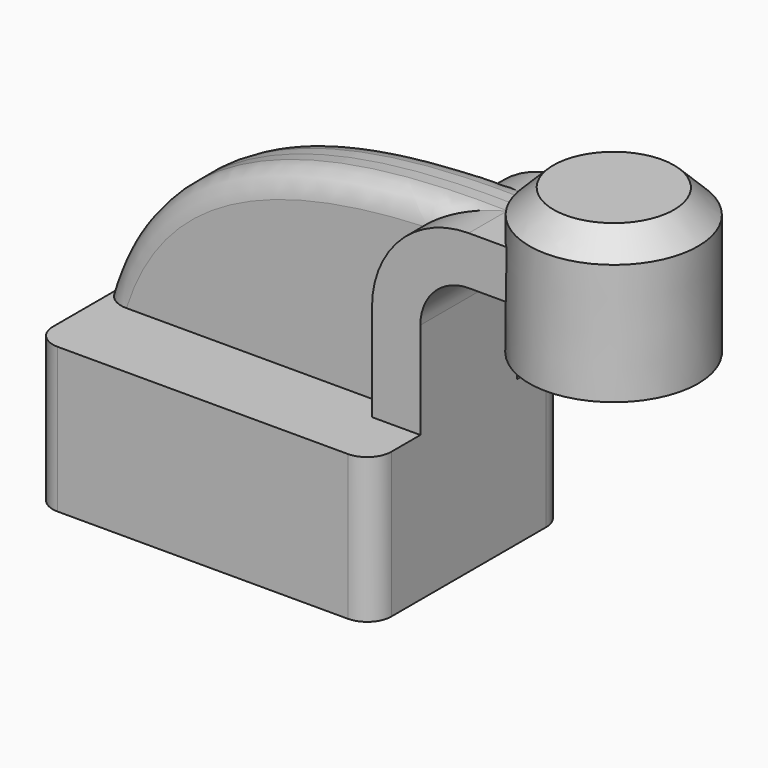
from build123d import *

# Parameters (mm, degrees)
F1_DEPTH = 25
F2_DEPTH = 7.5
F3_DEPTH = 12.5
F4_DEPTH = 12.5
F6_R     = 5
F7_SIZE  = 5


with BuildPart() as f1:
    # F0 (on Front) → F1 (new body, symmetric)
    with BuildSketch(Plane.XZ):
        Polygon((25, 15), (-35, 15), (-35, -15), (35, -15), (35, 15), align=None)
    extrude(amount=F1_DEPTH, both=True)

    # F0 (on Front) → F2 (join, symmetric)
    with BuildSketch(Plane.XZ):
        with BuildLine():
            add(Edge.make_bspline(
                [(-35, 15), (-25.293957442, 48.5758967698), (8.6229406297, 55.761680007), (45, 55)],
                knots=[0, 0, 0, 0, 89.4427191, 89.4427191, 89.4427191, 89.4427191], degree=3))
            Line((-35, 15), (25, 15))
            Line((25, 15), (25, 35))
            ThreePointArc((25, 35), (30.8578643763, 49.1421356237), (45, 55))
        make_face()
    extrude(amount=F2_DEPTH, both=True)

    # F0 (on Front) → F3 (join, symmetric)
    with BuildSketch(Plane.XZ):
        with BuildLine():
            Line((25, 35), (25, 15))
            Line((25, 15), (35, 15))
            Line((35, 15), (35, 35))
            ThreePointArc((35, 35), (37.9289321881, 42.0710678119), (45, 45))
            Line((45, 45), (47.4594813585, 45))
            Line((47.4594813585, 45), (47.4594813585, 55))
            Line((47.4594813585, 55), (45, 55))
            ThreePointArc((45, 55), (30.8578643763, 49.1421356237), (25, 35))
        make_face()
    extrude(amount=F3_DEPTH, both=True)

    # F0 (on Front) → F4 (join, symmetric)
    with BuildSketch(Plane.XZ):
        Polygon((64.9868643671, 55), (47.4594813585, 55), (47.4594813585, 45), (64.9733581532, 45), align=None)
    extrude(amount=F4_DEPTH, both=True)

    # F0 (on Front) → F5 (revolve)
    with BuildSketch(Plane.XZ):
        Polygon((65, 64.7256219387), (64.9868643671, 55), (64.9733581532, 45), (64.9594813585, 34.7256219387), (82.4594813585, 34.7256219387), (82.4594813585, 64.7256219387), align=None)
    revolve(axis=Axis((64.9797406793, 0, 49.7256219387), (0.0013506202, 0, 0.9999990879)))

    # F6
    f6_edges = [f1.edges().sort_by_distance(p)[0] for p in [
        (35, -25, 0),
        (-35, -25, 0),
        (-35, 25, 0),
        (35, 25, 0),
        (-2.822986, -7.5, 48.736199),
        (-2.822986, 7.5, 48.736199),
    ]]
    fillet(f6_edges, radius=F6_R)

    # F7
    f7_edges = [f1.edges().sort_by_distance(p)[0] for p in [
        (47.540582, 0, 64.772784),
    ]]
    chamfer(f7_edges, length=F7_SIZE)


solid = f1.part
